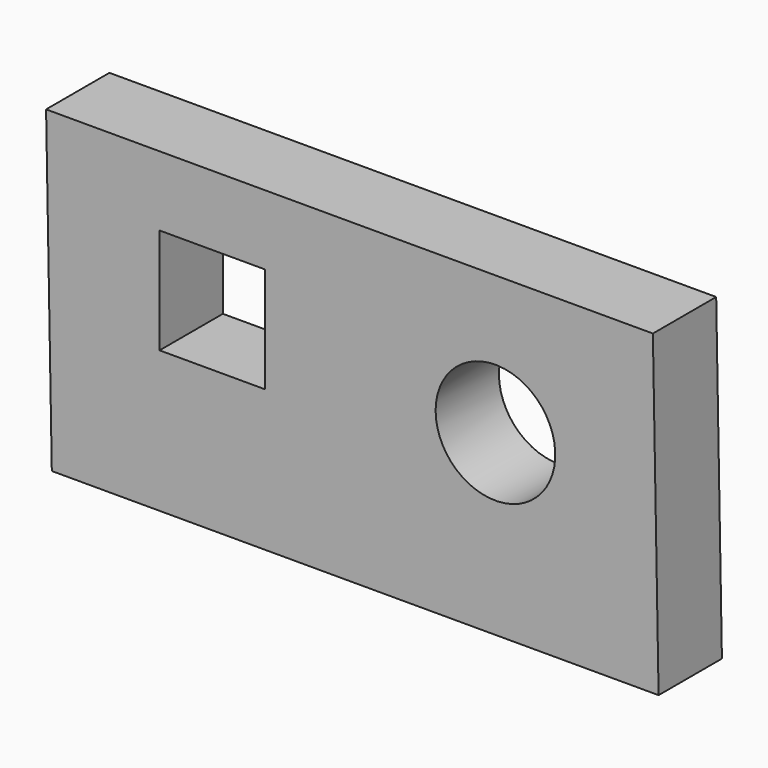
from build123d import *

# Parameters (mm, degrees)
F1_DEPTH  = 19.05
F2_W      = 25.4
F2_H      = 25.4
F3_DEPTH  = 25.4
F4_R      = 14.3990784814
F1_FACE_W = 25.4
F1_FACE_H = 25.4
F5_DEPTH  = 25.4


with BuildPart() as f1:
    # F0 (on Front) → F1 (new body)
    with BuildSketch(Plane.XZ):
        Polygon((76.2624083042, 0), (74.8843400498, 76.1875378778), (-71.1656599502, 76.1875378778), (-69.7875916958, 0), align=None)
    extrude(amount=F1_DEPTH)

    # F2 (on face) → F3 (cut)
    with BuildSketch(Plane.XZ.offset(19.05)):
        with Locations((-31.1477660805, 46.7091660619)):
            Rectangle(F2_W, F2_H)
    extrude(amount=-F3_DEPTH, mode=Mode.SUBTRACT)

    # F4 (on face) + F1_face (on face) → F5 (cut)
    with BuildSketch(Plane(origin=(0, 0, 0), x_dir=(-1, 0, 0), z_dir=(0, 1, 0))):
        with Locations((-36.9891412556, 42.8554788232)):
            Circle(F4_R)
    with BuildSketch(Plane(origin=(2.548374177, -19.05, 38.0937689389), x_dir=(1, 0, 0), z_dir=(0, -1, 0))):
        Polygon((-73.7140341272, 38.0937689389), (-72.3359658728, -38.0937689389), (73.7140341272, -38.0937689389), (72.3359658728, 38.0937689389), align=None)
        with Locations((-33.6961402575, 8.615397123)):
            Rectangle(F1_FACE_W, F1_FACE_H, mode=Mode.SUBTRACT)
    extrude(amount=-F5_DEPTH, dir=(0, 1, 0), mode=Mode.SUBTRACT)


solid = f1.part
